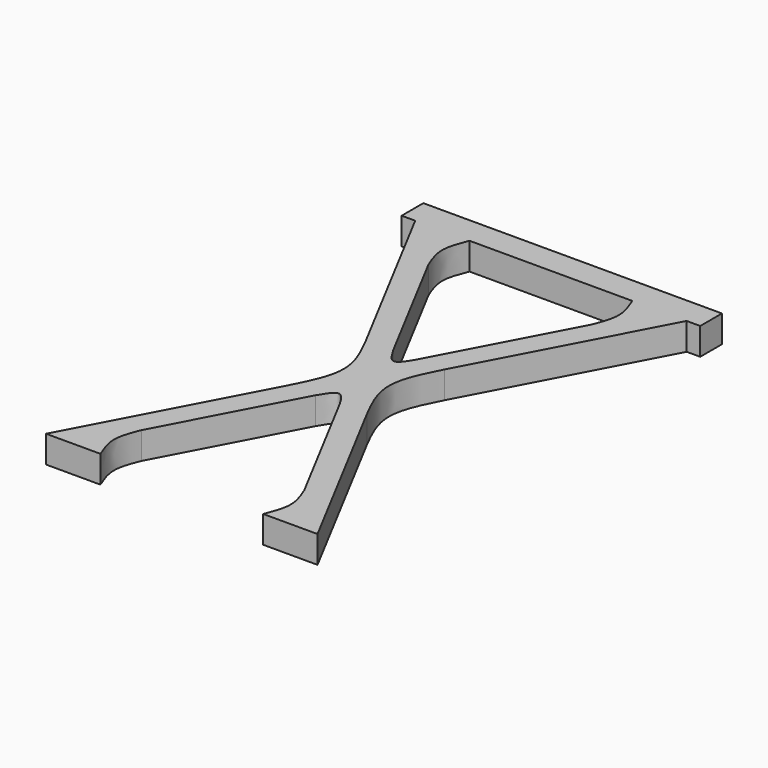
from build123d import *

# Parameters (mm, degrees)
F1_DEPTH = 5


with BuildPart() as f1:
    # F0 (on Top) → F1 (new body)
    with BuildSketch(Plane.XY):
        Polygon((-698.920531258, -293.7856763612), (-698.920531258, -298.7856763612), (-696.420531258, -298.7856763612), (-691.420531258, -298.7856763612), (-686.420531258, -298.7856763612), (-656.420531258, -298.7856763612), (-651.420531258, -298.7856763612), (-646.420531258, -298.7856763612), (-643.920531258, -298.7856763612), (-643.920531258, -293.7856763612), align=None)
        Polygon((-691.420531258, -298.7856763612), (-696.420531258, -298.7856763612), (-678.6579840796, -332.3371543648), (-673.920531258, -341.2856763612), (-671.420531258, -336.563454139), (-673.6579840796, -332.3371543648), (-686.420531258, -308.2301208056), align=None)
        with BuildLine():
            Line((-673.920531258, -341.2856763612), (-678.6579840796, -332.3371543648))
            add(Edge.make_bspline(
                [(-678.6579840796, -332.3371543648), (-677.1271404334, -335.3199950302), (-674.0667220825, -341.2856763612), (-677.1271404334, -347.2513576921), (-678.6579840796, -350.2341983576)],
                knots=[0, 0, 0, 0, 0.5, 1, 1, 1, 1], degree=3))
            Line((-678.6579840796, -350.2341983576), (-673.920531258, -341.2856763612))
        make_face()
        Polygon((-671.420531258, -346.0078985834), (-673.920531258, -341.2856763612), (-678.6579840796, -350.2341983576), (-696.420531258, -383.7856763612), (-691.420531258, -383.7856763612), (-688.920531258, -379.063454139), (-686.420531258, -374.3412319167), (-673.6579840796, -350.2341983576), align=None)
        Polygon((-669.1830784364, -332.3371543648), (-671.420531258, -336.563454139), (-668.920531258, -341.2856763612), (-664.1830784364, -332.3371543648), (-646.420531258, -298.7856763612), (-651.420531258, -298.7856763612), (-656.420531258, -308.2301208056), align=None)
        with BuildLine():
            Line((-669.1830784364, -350.2341983576), (-671.420531258, -346.0078985834))
            Line((-671.420531258, -346.0078985834), (-673.6579840796, -350.2341983576))
            add(Edge.make_bspline(
                [(-673.6579840796, -350.2341983576), (-672.9121664724, -348.9592484705), (-671.420531258, -346.4093486963), (-669.9288960436, -348.9592484705), (-669.1830784364, -350.2341983576)],
                knots=[0, 0, 0, 0, 0.5, 1, 1, 1, 1], degree=3))
        make_face()
        Polygon((-668.920531258, -341.2856763612), (-671.420531258, -346.0078985834), (-669.1830784364, -350.2341983576), (-656.420531258, -374.3412319167), (-651.420531258, -383.7856763612), (-646.420531258, -383.7856763612), (-664.1830784364, -350.2341983576), align=None)
        with BuildLine():
            Line((-664.1830784364, -332.3371543648), (-668.920531258, -341.2856763612))
            Line((-668.920531258, -341.2856763612), (-664.1830784364, -350.2341983576))
            add(Edge.make_bspline(
                [(-664.1830784364, -332.3371543648), (-665.7136048472, -335.3199950302), (-668.7746576688, -341.2856763612), (-665.7136048472, -347.2513576921), (-664.1830784364, -350.2341983576)],
                knots=[0, 0, 0, 0, 0.5, 1, 1, 1, 1], degree=3))
        make_face()
        with BuildLine():
            Line((-688.920531258, -379.063454139), (-691.420531258, -383.7856763612))
            Line((-691.420531258, -383.7856763612), (-686.420531258, -383.7856763612))
            add(Edge.make_bspline(
                [(-686.420531258, -383.7856763612), (-687.045531258, -382.2116022871), (-688.295531258, -379.063454139), (-687.045531258, -375.9153059908), (-686.420531258, -374.3412319167)],
                knots=[0, 0, 0, 0, 0.5, 1, 1, 1, 1], degree=3))
            Line((-686.420531258, -374.3412319167), (-688.920531258, -379.063454139))
        make_face()
        with BuildLine():
            Line((-651.420531258, -383.7856763612), (-656.420531258, -374.3412319167))
            add(Edge.make_bspline(
                [(-656.420531258, -383.7856763612), (-655.795531258, -382.2116022871), (-654.545531258, -379.063454139), (-655.795531258, -375.9153059908), (-656.420531258, -374.3412319167)],
                knots=[0, 0, 0, 0, 0.5, 1, 1, 1, 1], degree=3))
            Line((-656.420531258, -383.7856763612), (-651.420531258, -383.7856763612))
        make_face()
        Polygon((-671.420531258, -336.563454139), (-673.920531258, -341.2856763612), (-671.420531258, -346.0078985834), (-668.920531258, -341.2856763612), align=None)
        with BuildLine():
            Line((-686.420531258, -298.7856763612), (-691.420531258, -298.7856763612))
            Line((-691.420531258, -298.7856763612), (-686.420531258, -308.2301208056))
            add(Edge.make_bspline(
                [(-686.420531258, -298.7856763612), (-687.045531258, -300.3597504353), (-688.295531258, -303.5078985834), (-687.045531258, -306.6560467316), (-686.420531258, -308.2301208056)],
                knots=[0, 0, 0, 0, 0.5, 1, 1, 1, 1], degree=3))
        make_face()
        with BuildLine():
            Line((-651.420531258, -298.7856763612), (-656.420531258, -298.7856763612))
            add(Edge.make_bspline(
                [(-656.420531258, -298.7856763612), (-655.795531258, -300.3597504353), (-654.545531258, -303.5078985834), (-655.795531258, -306.6560467316), (-656.420531258, -308.2301208056)],
                knots=[0, 0, 0, 0, 0.5, 1, 1, 1, 1], degree=3))
            Line((-656.420531258, -308.2301208056), (-651.420531258, -298.7856763612))
        make_face()
        with BuildLine():
            add(Edge.make_bspline(
                [(-673.6579840796, -332.3371543648), (-672.9121664724, -333.6121042519), (-671.420531258, -336.1620040261), (-669.9288960436, -333.6121042519), (-669.1830784364, -332.3371543648)],
                knots=[0, 0, 0, 0, 0.5, 1, 1, 1, 1], degree=3))
            Line((-673.6579840796, -332.3371543648), (-671.420531258, -336.563454139))
            Line((-671.420531258, -336.563454139), (-669.1830784364, -332.3371543648))
        make_face()
    extrude(amount=F1_DEPTH)


solid = f1.part
